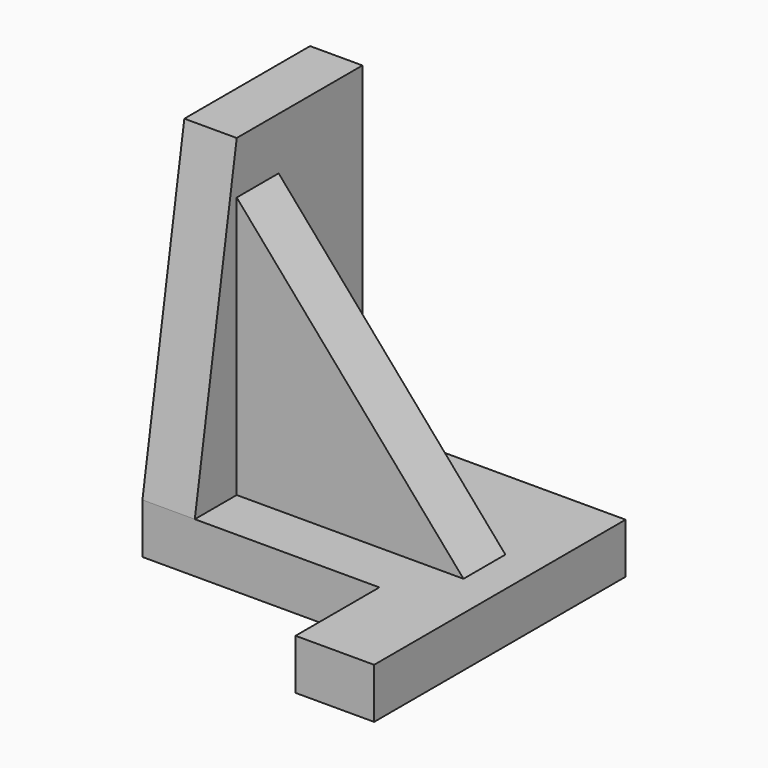
from build123d import *

# Parameters (mm, degrees)
F1_DEPTH = 5
F3_DEPTH = 5
F4_W     = 7.5
F4_H     = 10
F5_DEPTH = 4.8


with BuildPart() as f1:
    # F0 (on Front) → F1 (new body)
    with BuildSketch(Plane.XZ):
        Polygon((21.644296, 0), (0, 25), (0, 0), align=None)
    extrude(amount=F1_DEPTH)

    # F2 (on Right) → F3 (join)
    with BuildSketch(Plane.YZ):
        Polygon((-10, 0), (10, 0), (10, 30), (-5, 30), align=None)
    extrude(amount=-F3_DEPTH)

    # F4 (on Top) → F5 (join)
    with BuildSketch(Plane.XY):
        Polygon((-5, 10), (-5, -10), (17.615132, -10), (25.115132, -10), (25.115132, 10), align=None)
        with Locations((21.365132, -15)):
            Rectangle(F4_W, F4_H)
        Polygon((-5, 10), (-5, -10), (17.615132, -10), (25.115132, -10), (25.115132, 10), align=None)
    extrude(amount=-F5_DEPTH)


solid = f1.part
